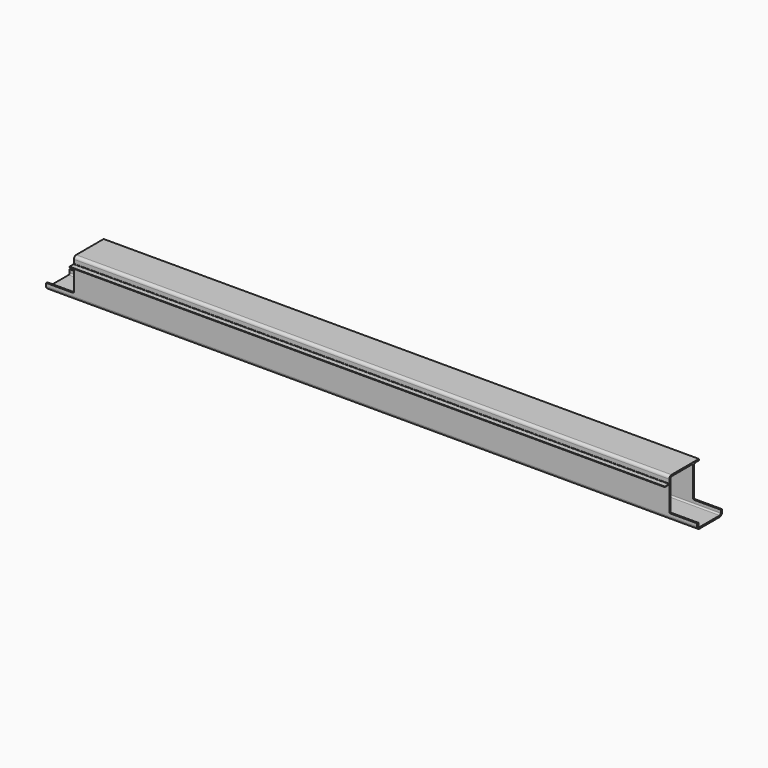
from build123d import *

# Parameters (mm, degrees)
F1_DEPTH = 2334
F2_W     = 100
F2_H     = 5
F3_DEPTH = 155


with BuildPart() as f1:
    # F0 (on Right) → F1 (new body)
    with BuildSketch(Plane.YZ):
        with BuildLine():
            Line((127.574191, 17.429068), (127.574191, 22.429068))
            Line((127.574191, 22.429068), (4.574191, 22.429068))
            ThreePointArc((4.574191, 22.429068), (-2.496876, 19.500136), (-5.425809, 12.429068))
            Line((-5.425809, 12.429068), (-5.425809, -0.570932))
            ThreePointArc((-5.425809, -0.570932), (-6.011595, -1.985146), (-7.425809, -2.570932))
            Line((-7.425809, -2.570932), (-25.425809, -2.570932))
            Line((-25.425809, -2.570932), (-25.425809, -4.570932))
            Line((-25.425809, -4.570932), (-7.425809, -4.570932))
            ThreePointArc((-7.425809, -4.570932), (-6.011595, -5.156719), (-5.425809, -6.570932))
            Line((-5.425809, -6.570932), (-5.425809, -105.570932))
            ThreePointArc((-5.425809, -105.570932), (-2.496876, -112.642), (4.574191, -115.570932))
            Line((4.574191, -115.570932), (95.574191, -115.570932))
            ThreePointArc((95.574191, -115.570932), (102.645259, -112.642), (105.574191, -105.570932))
            Line((105.574191, -105.570932), (105.574191, 12.429068))
            ThreePointArc((105.574191, 12.429068), (107.038658, 15.964602), (110.574191, 17.429068))
            Line((110.574191, 17.429068), (127.574191, 17.429068))
        make_face()
        with BuildLine():
            Line((100.574191, 12.429068), (100.574191, -105.570932))
            ThreePointArc((100.574191, -105.570932), (99.109725, -109.106466), (95.574191, -110.570932))
            Line((95.574191, -110.570932), (4.590852, -110.570932))
            ThreePointArc((4.590852, -110.570932), (1.049443, -109.10058), (-0.40912, -105.554299))
            Line((-0.40912, -105.554299), (-0.016578, 12.445701))
            ThreePointArc((-0.016578, 12.445701), (1.453746, 15.970478), (4.983395, 17.429068))
            Line((4.983395, 17.429068), (95.574191, 17.429068))
            ThreePointArc((95.574191, 17.429068), (99.109725, 15.964602), (100.574191, 12.429068))
        make_face(mode=Mode.SUBTRACT)
    extrude(amount=F1_DEPTH)

    # F2 (on face) → F3 (cut)
    with BuildSketch(Plane(origin=(0, 127.574191, 0), x_dir=(-1, 0, 0), z_dir=(0, 1, 0))):
        with BuildLine():
            Line((0, 17.429068), (-100, 17.429068))
            Line((-100, 17.429068), (-100, -89.570932))
            ThreePointArc((-100, -89.570932), (-98.535534, -93.106466), (-95, -94.570932))
            Line((-95, -94.570932), (0, -94.570932))
            Line((0, -94.570932), (0, 17.429068))
        make_face()
        with BuildLine():
            Line((-2234, 17.429068), (-2334, 17.429068))
            Line((-2334, 17.429068), (-2334, -94.570932))
            Line((-2334, -94.570932), (-2239, -94.570932))
            ThreePointArc((-2239, -94.570932), (-2235.464466, -93.106466), (-2234, -89.570932))
            Line((-2234, -89.570932), (-2234, 17.429068))
        make_face()
        with Locations((-2284, 19.929068)):
            Rectangle(F2_W, F2_H)
        with Locations((-50, 19.929068)):
            Rectangle(F2_W, F2_H)
    extrude(amount=-F3_DEPTH, mode=Mode.SUBTRACT)


solid = f1.part
